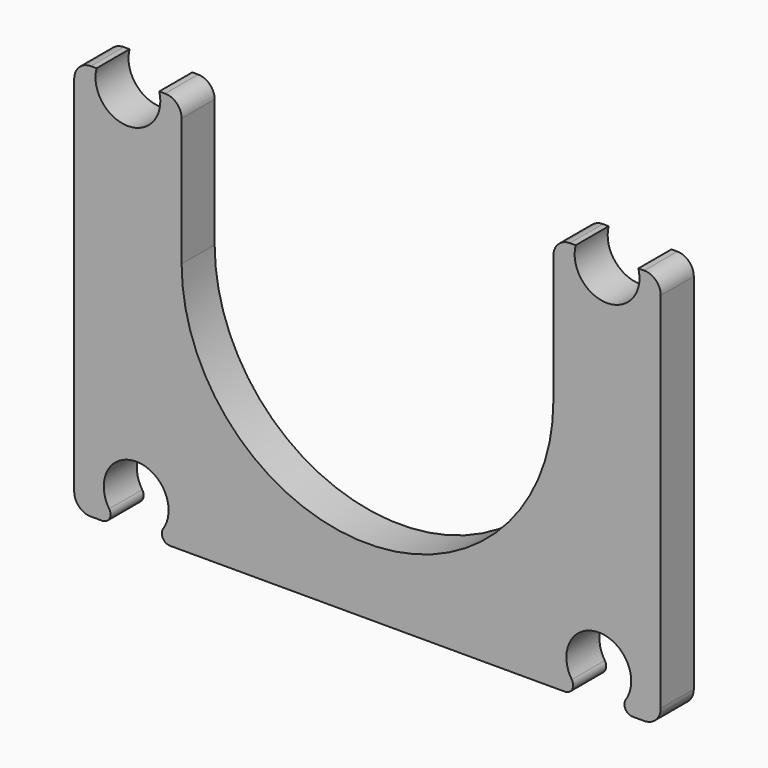
from build123d import *

# Parameters (mm, degrees)
F1_DEPTH = 5
F2_R     = 3.925
F3_DEPTH = 5.001
F4_R     = 2
F5_R     = 1


with BuildPart() as f1:
    # F0 (on Front) → F1 (new body)
    with BuildSketch(Plane.XZ):
        with BuildLine():
            ThreePointArc((22.5, 30.5), (0, 8), (-22.5, 30.5))
            Line((-22.5, 30.5), (-22.5, 48))
            Line((-22.5, 48), (-25.2045257213, 48))
            ThreePointArc((-25.2045257213, 48), (-29, 43.075), (-32.7954742787, 48))
            Line((-32.7954742787, 48), (-35.5, 48))
            Line((-35.5, 48), (-35.5, 0))
            Line((-35.5, 0), (35.5, 0))
            Line((35.5, 0), (35.5, 48))
            Line((35.5, 48), (32.7954742787, 48))
            ThreePointArc((32.7954742787, 48), (29, 43.075), (25.2045257213, 48))
            Line((25.2045257213, 48), (22.5, 48))
            Line((22.5, 48), (22.5, 30.5))
        make_face()
    extrude(amount=F1_DEPTH)

    # F2 (on Front) → F3 (cut, through all)
    with BuildSketch(Plane.XZ):
        with Locations((-28, 3.725)):
            Circle(F2_R)
        with Locations((28, 3.725)):
            Circle(F2_R)
    extrude(amount=F3_DEPTH, mode=Mode.SUBTRACT)

    # F4
    f4_edges = [f1.edges().sort_by_distance(p)[0] for p in [
        (-22.5, -2.5, 48),
        (22.5, -2.5, 48),
        (-35.5, -2.5, 48),
        (35.5, -2.5, 48),
        (35.5, -2.5, 0),
        (-35.5, -2.5, 0),
    ]]
    fillet(f4_edges, radius=F4_R)

    # F5
    f5_edges = [f1.edges().sort_by_distance(p)[0] for p in [
        (-26.763068, -2.5, 0),
        (-29.236932, -2.5, 0),
        (29.236932, -2.5, 0),
        (26.763068, -2.5, 0),
    ]]
    fillet(f5_edges, radius=F5_R)


solid = f1.part
